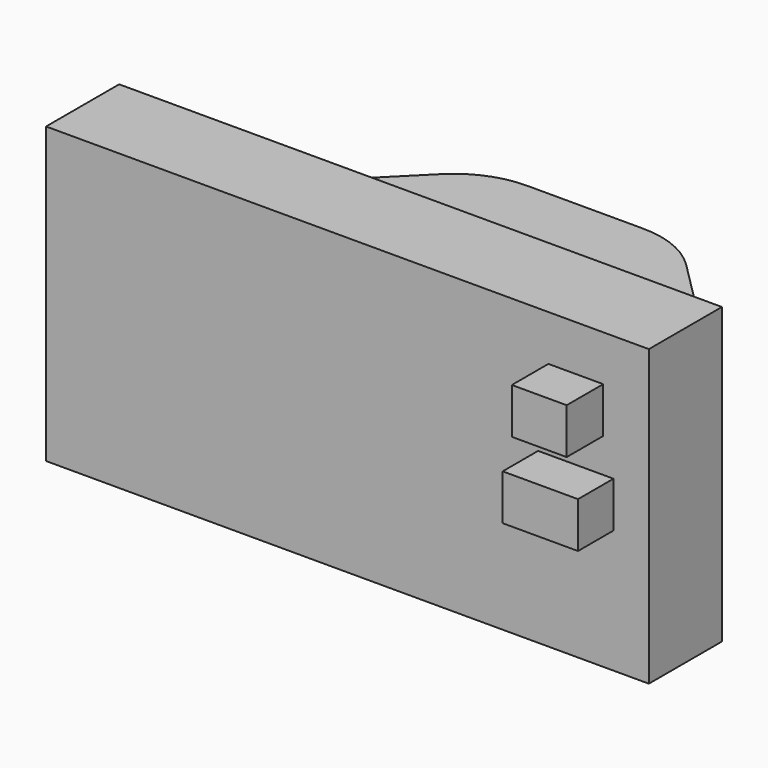
from build123d import *

# Parameters (mm, degrees)
F0_W      = 33.528
F0_H      = 5.08
F1_DEPTH  = 16.383
F2_W      = 33.528
F2_H      = 5.969
F3_DEPTH  = 11.43
F4_SIZE   = 11.43
F5_R      = 2.159
F6_DEPTH  = 25.4
F7_W      = 3.048
F7_H      = 2.54
F8_DEPTH  = 2.54
F9_W      = 4.191
F9_H      = 2.54
F10_DEPTH = 2.4638
F11_R     = 5.08


with BuildPart() as f1:
    # F0 (on Top) → F1 (new body)
    with BuildSketch(Plane.XY):
        with Locations((4.3383603916, 8.4559087365)):
            Rectangle(F0_W, F0_H)
    extrude(amount=F1_DEPTH)

    # F2 (on face) → F3 (join)
    with BuildSketch(Plane(origin=(0, 10.9959087365, 0), x_dir=(-1, 0, 0), z_dir=(0, 1, 0))):
        with Locations((-4.3383603916, 8.1915)):
            Rectangle(F2_W, F2_H)
    extrude(amount=F3_DEPTH)

    # F4
    f4_edges = [f1.edges().sort_by_distance(p)[0] for p in [
        (-12.42564, 22.425909, 8.1915),
        (21.10236, 22.425909, 8.1915),
    ]]
    chamfer(f4_edges, length=F4_SIZE)

    # F5 (on face) → F6 (cut)
    with BuildSketch(Plane(origin=(0, 0, 5.207), x_dir=(1, 0, 0), z_dir=(0, 0, -1))):
        with Locations((4.3383603916, -16.0759087365)):
            Circle(F5_R)
    extrude(amount=-F6_DEPTH, mode=Mode.SUBTRACT)

    # F7 (on face) → F8 (join)
    with BuildSketch(Plane.XZ.offset(-5.9159087365)):
        with Locations((17.0383603916, 12.573)):
            Rectangle(F7_W, F7_H)
    extrude(amount=F8_DEPTH)

    # F9 (on face) → F10 (join)
    with BuildSketch(Plane.XZ.offset(-5.9159087365)):
        with Locations((17.0383603916, 8.128)):
            Rectangle(F9_W, F9_H)
    extrude(amount=F10_DEPTH)

    # F11
    f11_edges = [f1.edges().sort_by_distance(p)[0] for p in [
        (-0.99564, 22.425909, 8.1915),
        (9.67236, 22.425909, 8.1915),
    ]]
    fillet(f11_edges, radius=F11_R)


solid = f1.part
